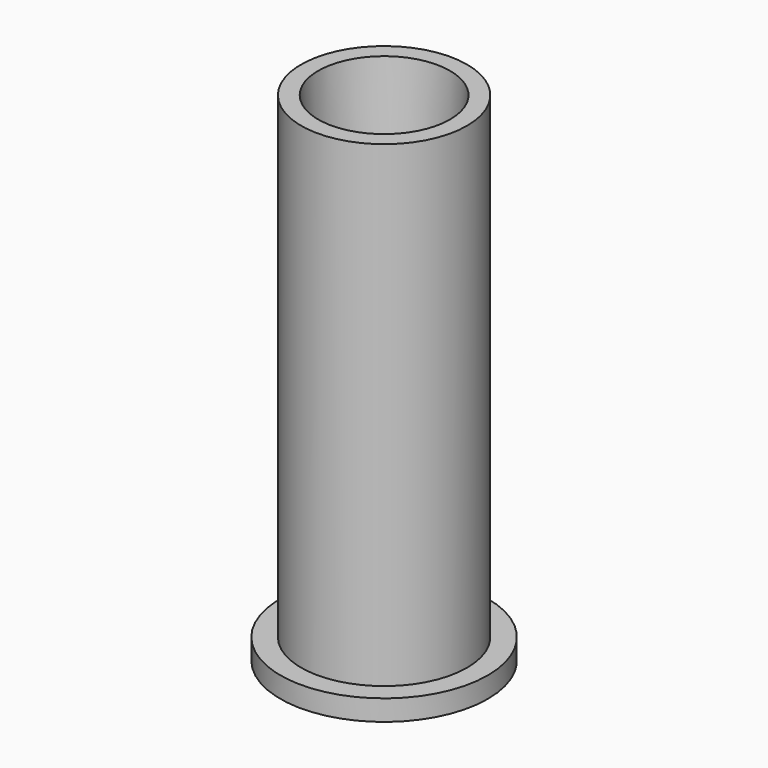
from build123d import *

# Parameters (mm, degrees)
F0_R     = 31.75
F0_R_2   = 25.4
F1_DEPTH = 6.35
F0_R_3   = 9.525
F2_DEPTH = 152.4
F3_DEPTH = 152.401
F3_TAPER = -4
F4_SIZE  = 5.08


with BuildPart() as f1:
    # F0 (on Top) → F1 (new body)
    with BuildSketch(Plane.XY):
        Circle(F0_R)
        Circle(F0_R_2, mode=Mode.SUBTRACT)
    extrude(amount=F1_DEPTH)

    # F0 (on Top) → F2 (join)
    with BuildSketch(Plane.XY):
        Circle(F0_R_2)
        Circle(F0_R_3, mode=Mode.SUBTRACT)
    extrude(amount=F2_DEPTH)

    # F0 (on Top) → F3 (cut, through all)
    with BuildSketch(Plane.XY):
        Circle(F0_R_3)
    extrude(amount=F3_DEPTH, taper=F3_TAPER, mode=Mode.SUBTRACT)

    # F4
    f4_edges = [f1.edges().sort_by_distance(p)[0] for p in [
        (-9.525, 0, 0),
    ]]
    chamfer(f4_edges, length=F4_SIZE)


solid = f1.part
